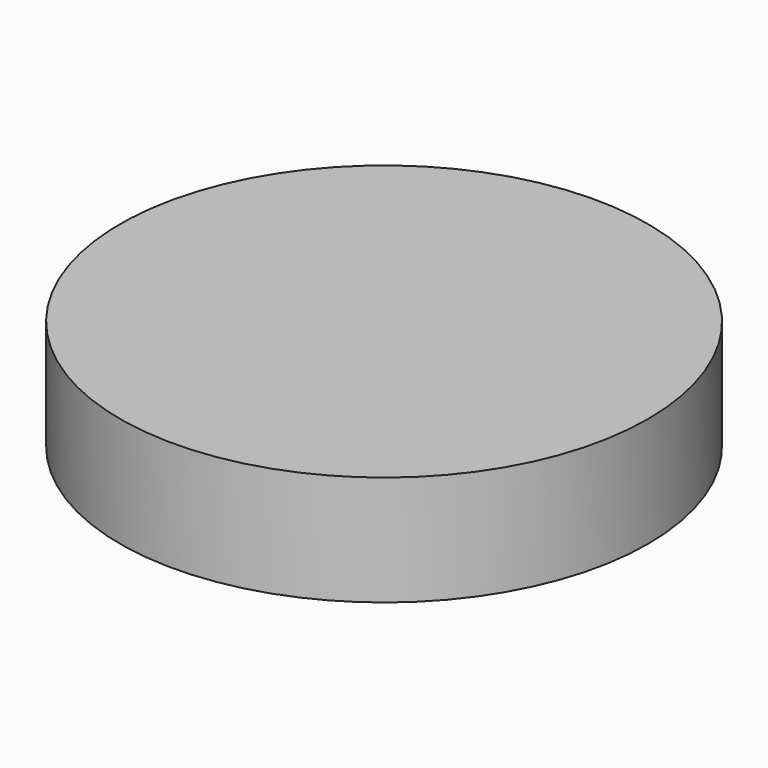
from build123d import *

# Parameters (mm, degrees)
SKETCH_R  = 7.62
PAD_DEPTH = 3.175


with BuildPart() as part:
    # Sketch → Pad (new body)
    with BuildSketch(Plane.XY):
        Circle(SKETCH_R)
    extrude(amount=PAD_DEPTH)


solid = part.part
